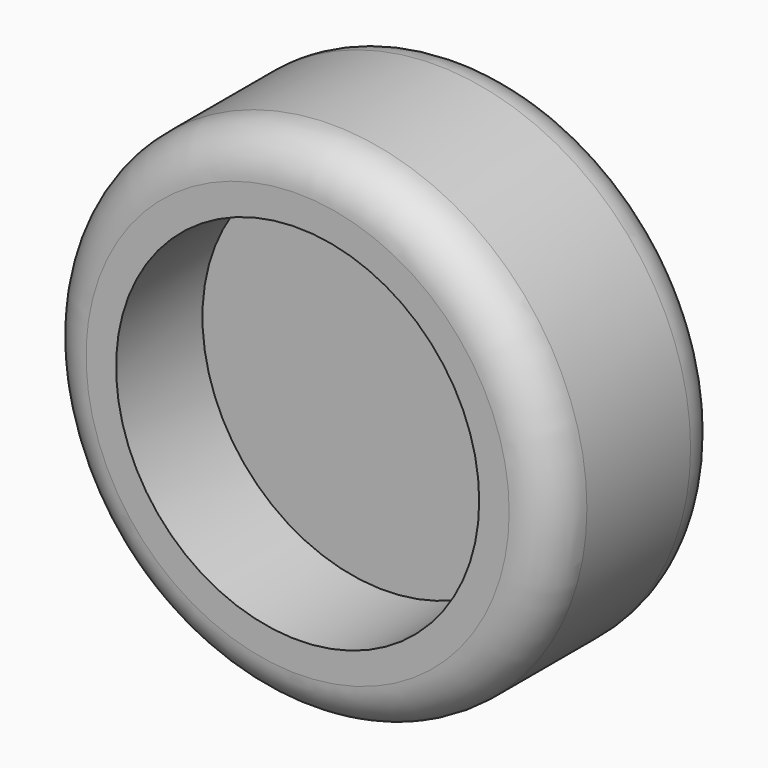
from build123d import *

# Parameters (mm, degrees)
F0_R     = 29.967448
F1_DEPTH = 25.4
F2_R     = 5.08
F3_R     = 21.358851
F4_DEPTH = 12.7


with BuildPart() as f1:
    # F0 (on Front) → F1 (new body)
    with BuildSketch(Plane.XZ):
        Circle(F0_R)
    extrude(amount=F1_DEPTH)

    # F2
    f2_edges = [f1.edges().sort_by_distance(p)[0] for p in [
        (-29.967448, 0, 0),
        (-29.967448, -25.4, 0),
    ]]
    fillet(f2_edges, radius=F2_R)

    # F3 (on face) → F4 (cut, symmetric)
    with BuildSketch(Plane.XZ.offset(25.4)):
        Circle(F3_R)
    extrude(amount=F4_DEPTH, both=True, mode=Mode.SUBTRACT)


solid = f1.part
